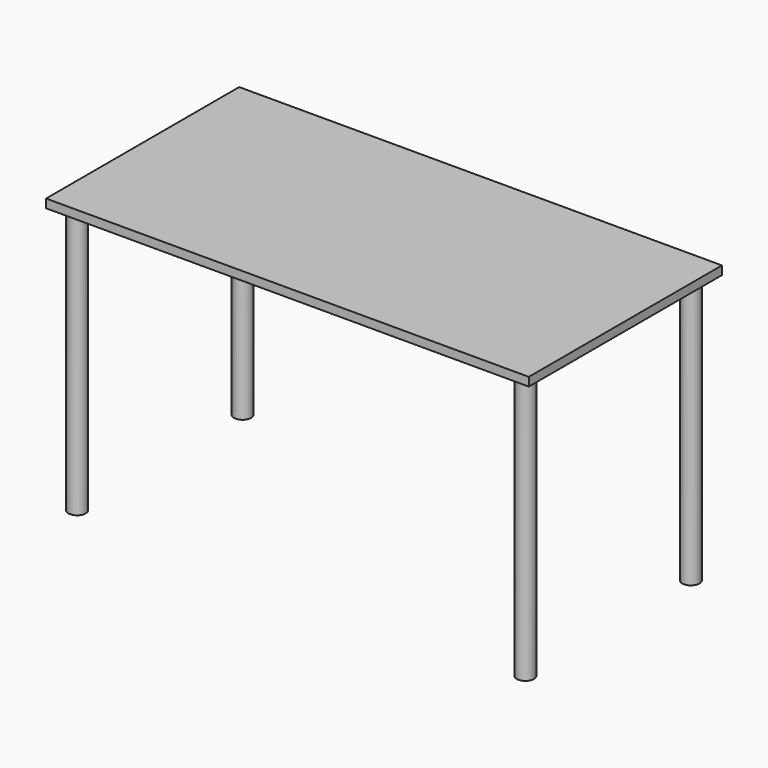
from build123d import *

# Parameters (mm, degrees)
F0_W     = 35.56
F0_H     = 17.78
F1_DEPTH = 0.635
F2_R     = 0.635
F3_DEPTH = 20.32


with BuildPart() as f1:
    # F0 (on Top) → F1 (new body)
    with BuildSketch(Plane.XY):
        with Locations((-17.78, -8.89)):
            Rectangle(F0_W, F0_H)
    extrude(amount=-F1_DEPTH)

    # F2 (on Top) → F3 (join)
    with BuildSketch(Plane.XY):
        with Locations((-34.29, -1.27)):
            Circle(F2_R)
        with Locations((-34.29, -16.51)):
            Circle(F2_R)
        with Locations((-1.27, -16.51)):
            Circle(F2_R)
        with Locations((-1.27, -1.27)):
            Circle(F2_R)
    extrude(amount=-F3_DEPTH)


solid = f1.part
